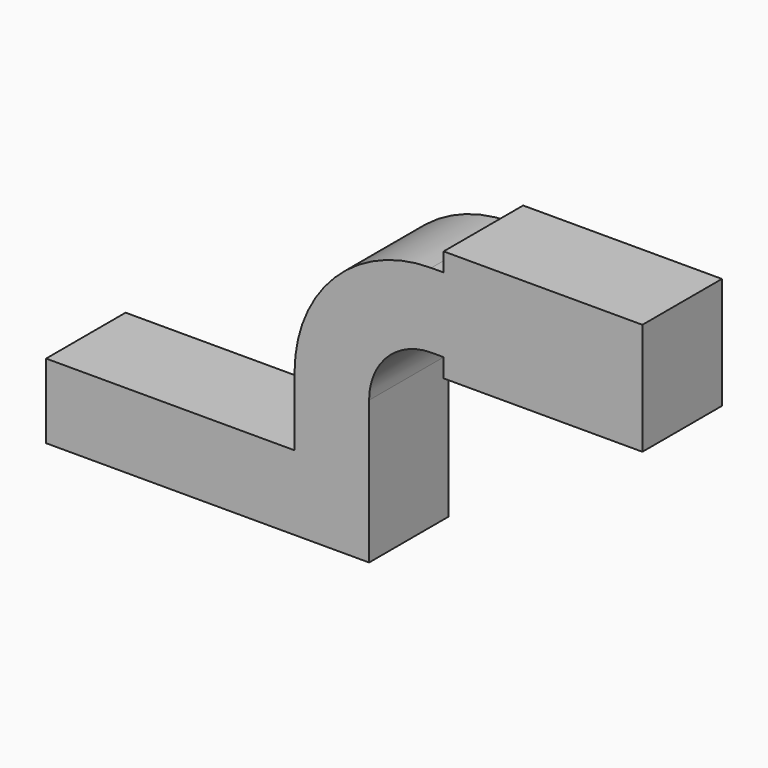
from build123d import *

# Parameters (mm, degrees)
F1_DEPTH = 25.4


with BuildPart() as f1:
    # F0 (on Front) → F1 (new body)
    with BuildSketch(Plane.XZ):
        Polygon((-41.275, -9.525), (41.275, -9.525), (41.275, 9.525), (22.225, 9.525), (-41.275, 9.525), align=None)
        with BuildLine():
            Line((22.225, 9.525), (41.275, 9.525))
            Line((41.275, 9.525), (41.275, 27.0002))
            ThreePointArc((41.275, 27.0002), (45.92468, 38.22552), (57.15, 42.8752))
            Line((57.15, 42.8752), (60.325, 42.8752))
            Line((60.325, 42.8752), (60.325, 61.9252))
            Line((60.325, 61.9252), (57.15, 61.9252))
            ThreePointArc((57.15, 61.9252), (32.454296, 51.695904), (22.225, 27.0002))
            Line((22.225, 27.0002), (22.225, 9.525))
        make_face()
        Polygon((60.325, 61.9252), (60.325, 42.8752), (60.325, 38.1), (111.125, 38.1), (111.125, 66.675), (60.325, 66.675), align=None)
    extrude(amount=F1_DEPTH)


solid = f1.part
